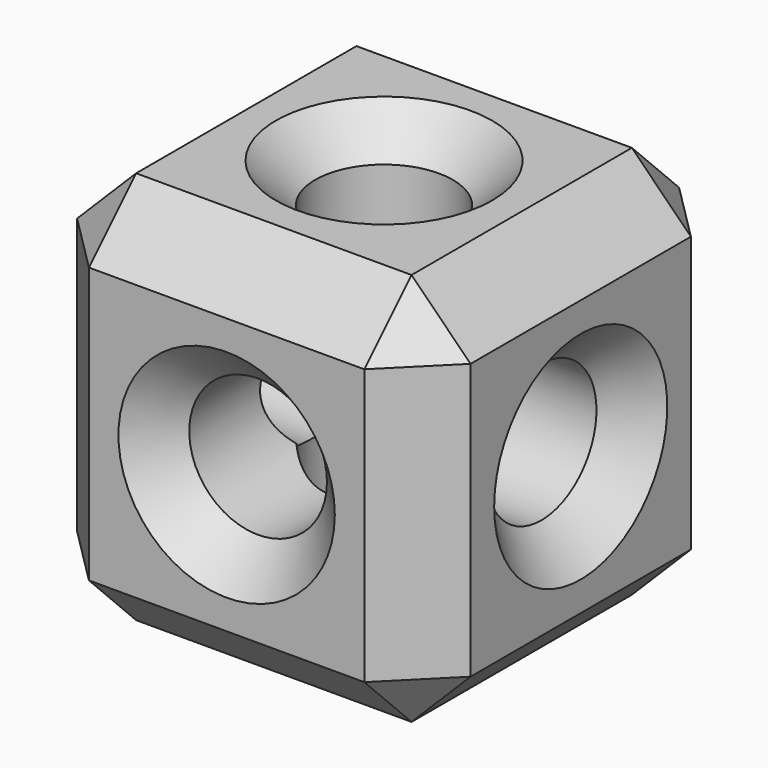
from build123d import *

# Parameters (mm, degrees)
F0_W     = 100
F0_H     = 100
F0_R     = 17.5
F1_DEPTH = 50
F2_R     = 17.5
F3_DEPTH = 100
F4_R     = 17.5
F5_DEPTH = 100
F6_SIZE  = 15
F7_SIZE  = 10


with BuildPart() as f1:
    # F0 (on Front) → F1 (new body, symmetric)
    with BuildSketch(Plane.XZ):
        Rectangle(F0_W, F0_H)
        Circle(F0_R, mode=Mode.SUBTRACT)
    extrude(amount=F1_DEPTH, both=True)

    # F2 (on face) → F3 (cut, through all)
    with BuildSketch(Plane(origin=(-50, 0, 0), x_dir=(0, -1, 0), z_dir=(-1, 0, 0))):
        Circle(F2_R)
    extrude(amount=-F3_DEPTH, mode=Mode.SUBTRACT)

    # F4 (on face) → F5 (cut, through all)
    with BuildSketch(Plane(origin=(0, 0, -50), x_dir=(1, 0, 0), z_dir=(0, 0, -1))):
        Circle(F4_R)
    extrude(amount=-F5_DEPTH, mode=Mode.SUBTRACT)

    # F6
    f6_edges = [f1.edges().sort_by_distance(p)[0] for p in [
        (0, 50, 50),
        (50, 0, 50),
        (0, -50, 50),
        (-50, 0, 50),
        (-50, 50, 0),
        (-50, -50, 0),
        (-50, 0, -50),
        (0, 50, -50),
        (50, 0, -50),
        (50, -50, 0),
        (0, -50, -50),
        (50, 50, 0),
    ]]
    chamfer(f6_edges, length=F6_SIZE)

    # F7
    f7_edges = [f1.edges().sort_by_distance(p)[0] for p in [
        (50, 17.5, 0),
        (-17.5, 50, 0),
        (-17.5, 0, -50),
        (-17.5, -50, 0),
        (-50, 17.5, 0),
        (-17.5, 0, 50),
    ]]
    chamfer(f7_edges, length=F7_SIZE)


solid = f1.part
